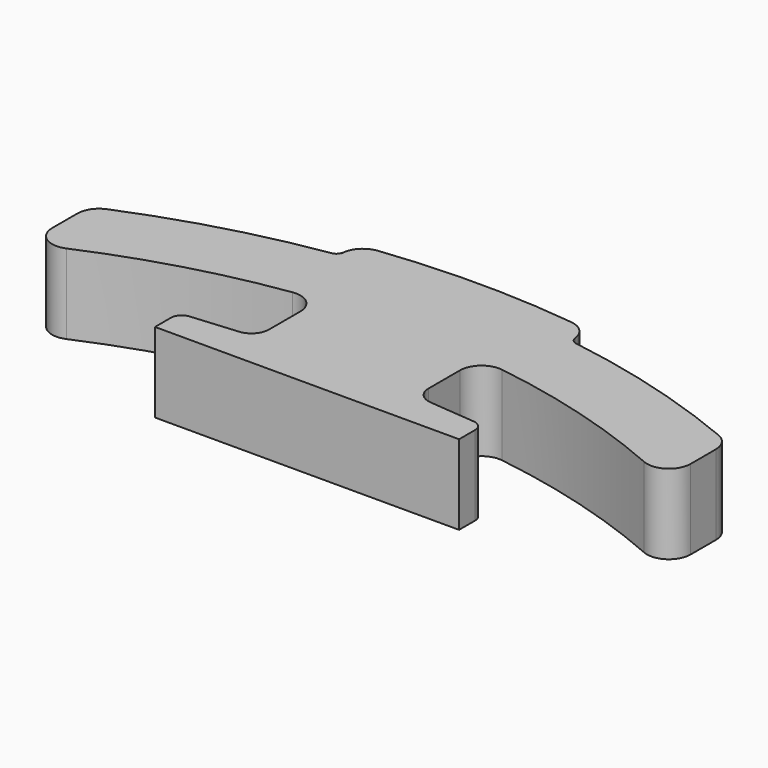
from build123d import *

# Parameters (mm, degrees)
F1_DEPTH = 5.5
F2_R     = 1.2


with BuildPart() as f1:
    # F0 (on Top) → F1 (new body)
    with BuildSketch(Plane.XY):
        with BuildLine():
            ThreePointArc((-19.911795, 45.777431), (-13.683868, 48.004357), (-7.216495, 49.389761))
            ThreePointArc((-7.216495, 49.389761), (-6.018863, 49.04009), (-5.5, 47.905466))
            Line((-5.5, 47.905466), (-5.5, 44.101598))
            Line((-5.5, 44.101598), (-9.79634, 43.725717))
            ThreePointArc((-9.79634, 43.725717), (-10.283931, 43.485264), (-10.480973, 42.978571))
            Line((-10.480973, 42.978571), (-10.480973, 41.609859))
            Line((-10.480973, 41.609859), (-5.5, 41.609859))
            Line((-5.5, 41.609859), (5.5, 41.609859))
            Line((5.5, 41.609859), (10.480973, 41.609859))
            Line((10.480973, 41.609859), (10.480973, 42.978571))
            ThreePointArc((10.480973, 42.978571), (10.283931, 43.485264), (9.79634, 43.725717))
            Line((9.79634, 43.725717), (5.5, 44.101598))
            Line((5.5, 44.101598), (5.5, 47.905466))
            ThreePointArc((5.5, 47.905466), (6.018863, 49.04009), (7.216495, 49.389761))
            ThreePointArc((7.216495, 49.389761), (13.683868, 48.004357), (19.911795, 45.777431))
            ThreePointArc((19.911795, 45.777431), (21.331939, 45.899157), (22.009149, 47.153356))
            Line((22.009149, 47.153356), (22.009149, 49.32608))
            ThreePointArc((22.009149, 49.32608), (21.756653, 50.158986), (21.084172, 50.711485))
            ThreePointArc((21.084172, 50.711485), (14.860362, 52.86769), (8.423423, 54.264415))
            ThreePointArc((8.423423, 54.264415), (8.120337, 54.433161), (8, 54.758516))
            Line((8, 54.758516), (8, 54.557665))
            ThreePointArc((8, 54.557665), (7.620999, 55.554341), (6.675517, 56.047361))
            ThreePointArc((6.675517, 56.047361), (-0.001162, 56.437264), (-6.677355, 56.039123))
            ThreePointArc((-6.677355, 56.039123), (-7.621613, 55.545628), (-8, 54.549645))
            Line((-8, 54.549645), (-8, 54.758516))
            ThreePointArc((-8, 54.758516), (-8.120337, 54.433161), (-8.423423, 54.264415))
            ThreePointArc((-8.423423, 54.264415), (-14.860362, 52.86769), (-21.084172, 50.711485))
            ThreePointArc((-21.084172, 50.711485), (-21.756653, 50.158986), (-22.009149, 49.32608))
            Line((-22.009149, 49.32608), (-22.009149, 47.153356))
            ThreePointArc((-22.009149, 47.153356), (-21.331939, 45.899157), (-19.911795, 45.777431))
        make_face()
    extrude(amount=F1_DEPTH)

    # F2
    f2_edges = [f1.edges().sort_by_distance(p)[0] for p in [
        (5.5, 44.101598, 2.75),
        (-5.5, 44.101598, 2.75),
    ]]
    fillet(f2_edges, radius=F2_R)


solid = f1.part
